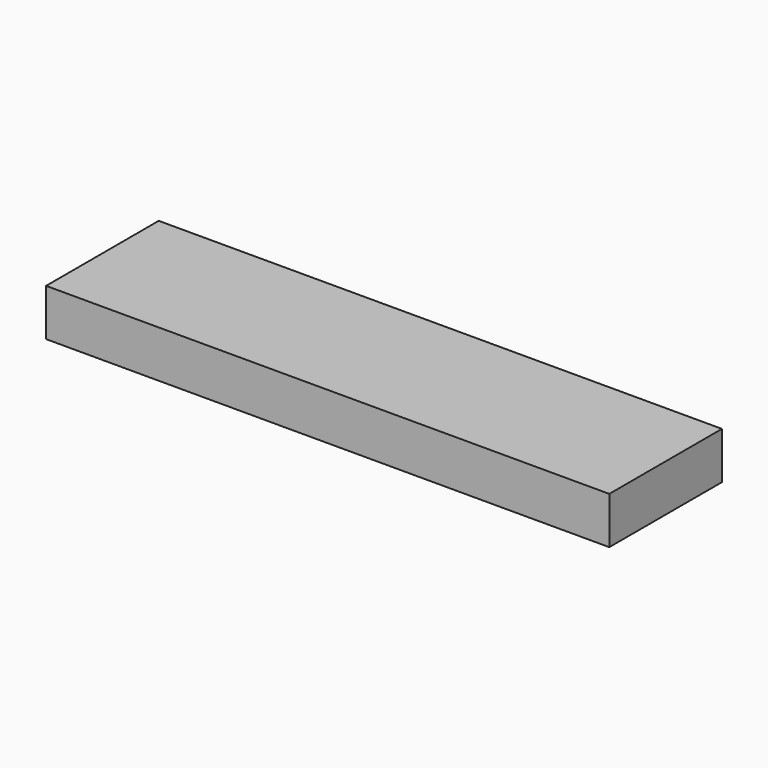
from build123d import *

# Parameters (mm, degrees)
BEAM_W     = 120
BEAM_H     = 30
BEAM_DEPTH = 10


with BuildPart() as part:
    # Beam → Beam (new body)
    with BuildSketch(Plane.XY):
        with Locations((60, 15)):
            Rectangle(BEAM_W, BEAM_H)
    extrude(amount=BEAM_DEPTH)


solid = part.part
